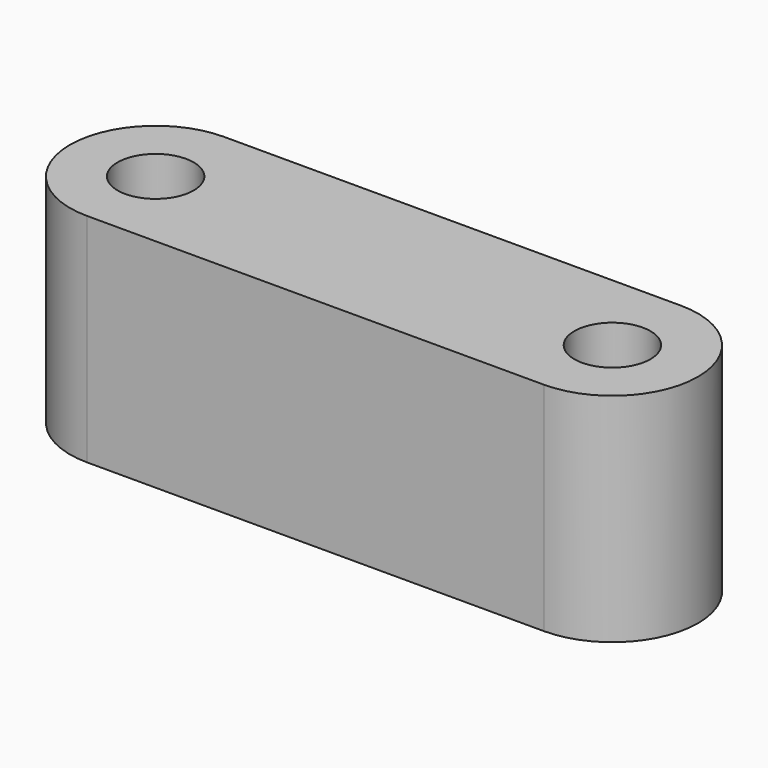
from build123d import *

# Parameters (mm, degrees)
SKETCH_R  = 2
PAD_DEPTH = 11.4


with BuildPart() as part:
    # Sketch → Pad (new body)
    with BuildSketch(Plane.XY):
        with BuildLine():
            ThreePointArc((-11.999992, 4.5), (-16.5, 4e-06), (-12, -4.5))
            Line((-12, -4.5), (11.999984, -4.5))
            ThreePointArc((11.999984, -4.5), (16.5, -4e-06), (11.999992, 4.5))
            Line((-11.999992, 4.5), (11.999992, 4.5))
        make_face()
        with Locations((-12, 0)):
            Circle(SKETCH_R, mode=Mode.SUBTRACT)
        with Locations((12, 0)):
            Circle(SKETCH_R, mode=Mode.SUBTRACT)
    extrude(amount=PAD_DEPTH)


solid = part.part
